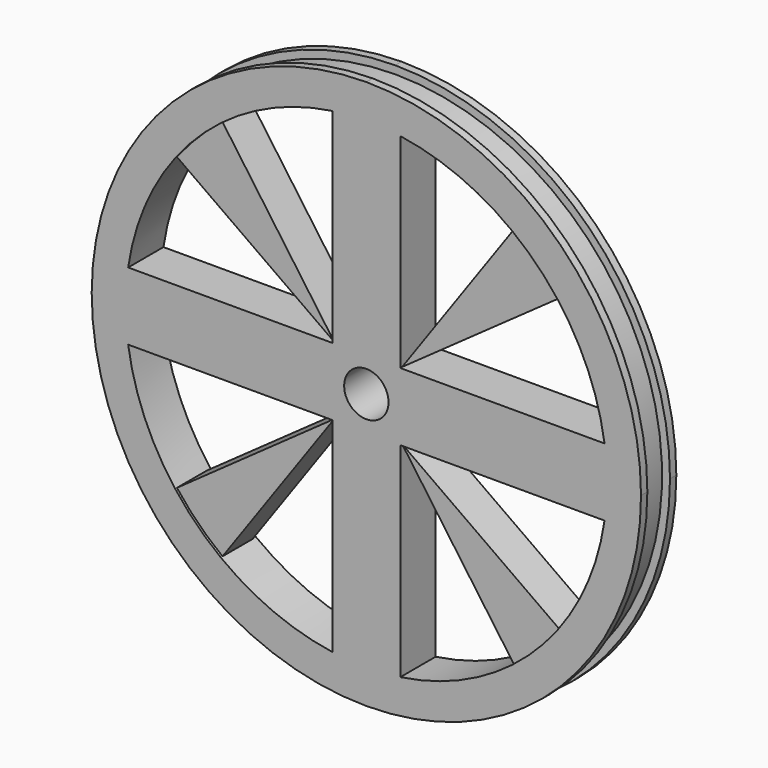
from build123d import *

# Parameters (mm, degrees)
F1_DEPTH = 9.906
F2_R     = 4.9801152189
F3_DEPTH = 25.4
F4_START = 0.9652
F4_DEPTH = 8.4328
F5_W     = 6.35
F5_H     = 1.778


with BuildPart() as f1:
    # F0 (on Front) → F1 (new body)
    with BuildSketch(Plane.XZ):
        with BuildLine():
            Line((0, 0), (0, 61.6404471462))
            ThreePointArc((0, 61.6404471462), (-43.5239509261, 43.5239509261), (-61.6404471462, 0))
            Line((-61.6404471462, 0), (0, 0))
        make_face()
        with BuildLine():
            ThreePointArc((-32.6825445587, 42.9048036652), (-20.8229984577, 49.7745877791), (-7.620000662, 53.4520348147))
            Line((-7.620000662, 53.4520348147), (-7.620000662, 7.620000662))
            Line((-7.620000662, 7.620000662), (-53.4520348147, 7.620000662))
            ThreePointArc((-53.4520348147, 7.620000662), (-49.7745877791, 20.8229984577), (-42.9048036652, 32.6825445587))
            ThreePointArc((-42.9048036652, 32.6825445587), (-38.1357967854, 38.1357967854), (-32.6825445587, 42.9048036652))
        make_face(mode=Mode.SUBTRACT)
        with BuildLine():
            ThreePointArc((-61.6404471462, 0), (0, -61.6404471462), (61.6404471462, 0))
            ThreePointArc((61.6404471462, 0), (43.5863781724, 43.5863781724), (0, 61.6404471462))
            Line((0, 61.6404471462), (0, 0))
            Line((0, 0), (-61.6404471462, 0))
        make_face()
        with BuildLine():
            ThreePointArc((-42.9048036652, -32.6825445587), (-49.7745877791, -20.8229984577), (-53.4520348147, -7.620000662))
            Line((-53.4520348147, -7.620000662), (-7.620000662, -7.620000662))
            Line((-7.620000662, -7.620000662), (-7.620000662, -53.4520348147))
            ThreePointArc((-7.620000662, -53.4520348147), (-20.8229984577, -49.7745877791), (-32.6825445587, -42.9048036652))
            ThreePointArc((-32.6825445587, -42.9048036652), (-38.1357967854, -38.1357967854), (-42.9048036652, -32.6825445587))
        make_face(mode=Mode.SUBTRACT)
        with BuildLine():
            ThreePointArc((32.6825445587, -42.9048036652), (20.8229984577, -49.7745877791), (7.620000662, -53.4520348147))
            Line((7.620000662, -53.4520348147), (7.620000662, -7.620000662))
            Line((7.620000662, -7.620000662), (53.4520348147, -7.620000662))
            ThreePointArc((53.4520348147, -7.620000662), (49.7745877791, -20.8229984577), (42.9048036652, -32.6825445587))
            ThreePointArc((42.9048036652, -32.6825445587), (38.1357967854, -38.1357967854), (32.6825445587, -42.9048036652))
        make_face(mode=Mode.SUBTRACT)
        with BuildLine():
            ThreePointArc((42.9048036652, 32.6825445587), (49.7745877791, 20.8229984577), (53.4520348147, 7.620000662))
            Line((53.4520348147, 7.620000662), (7.620000662, 7.620000662))
            Line((7.620000662, 7.620000662), (7.620000662, 53.4520348147))
            ThreePointArc((7.620000662, 53.4520348147), (20.8229984577, 49.7745877791), (32.6825445587, 42.9048036652))
            ThreePointArc((32.6825445587, 42.9048036652), (38.1357967854, 38.1357967854), (42.9048036652, 32.6825445587))
        make_face(mode=Mode.SUBTRACT)
    extrude(amount=F1_DEPTH)

    # F2 (on face) → F3 (cut)
    with BuildSketch(Plane(origin=(0, 0, 0), x_dir=(-1, 0, 0), z_dir=(0, 1, 0))):
        Circle(F2_R)
    extrude(amount=-F3_DEPTH, mode=Mode.SUBTRACT)

    # F5 (on Right) → F6 (revolve, cut)
    with BuildSketch(Plane.YZ):
        with Locations((-4.953, 60.7514471462)):
            Rectangle(F5_W, F5_H)
    revolve(axis=Axis((0, -19.4112598596, 0), (0, -1, 0)), mode=Mode.SUBTRACT)


with BuildPart() as f4:
    # F0 (on Front) → F4 (new body)
    with BuildSketch(Plane.XZ.offset(F4_START)):
        with BuildLine():
            Line((-7.620000662, 7.620000662), (-32.6825445587, 42.9048036652))
            ThreePointArc((-32.6825445587, 42.9048036652), (-38.1357967854, 38.1357967854), (-42.9048036652, 32.6825445587))
            Line((-42.9048036652, 32.6825445587), (-7.620000662, 7.620000662))
        make_face()
    extrude(amount=F4_DEPTH)


with BuildPart() as f4b:
    # F0 (on Front) → F4, piece 2 (new body)
    with BuildSketch(Plane.XZ.offset(F4_START)):
        with BuildLine():
            Line((-7.620000662, -7.620000662), (-42.9048036652, -32.6825445587))
            ThreePointArc((-42.9048036652, -32.6825445587), (-38.1357967854, -38.1357967854), (-32.6825445587, -42.9048036652))
            Line((-32.6825445587, -42.9048036652), (-7.620000662, -7.620000662))
        make_face()
    extrude(amount=F4_DEPTH)


with BuildPart() as f4c:
    # F0 (on Front) → F4, piece 3 (new body)
    with BuildSketch(Plane.XZ.offset(F4_START)):
        with BuildLine():
            Line((7.620000662, -7.620000662), (32.6825445587, -42.9048036652))
            ThreePointArc((32.6825445587, -42.9048036652), (38.1357967854, -38.1357967854), (42.9048036652, -32.6825445587))
            Line((42.9048036652, -32.6825445587), (7.620000662, -7.620000662))
        make_face()
    extrude(amount=F4_DEPTH)


with BuildPart() as f4d:
    # F0 (on Front) → F4, piece 4 (new body)
    with BuildSketch(Plane.XZ.offset(F4_START)):
        with BuildLine():
            Line((7.620000662, 7.620000662), (42.9048036652, 32.6825445587))
            ThreePointArc((42.9048036652, 32.6825445587), (38.1357967854, 38.1357967854), (32.6825445587, 42.9048036652))
            Line((32.6825445587, 42.9048036652), (7.620000662, 7.620000662))
        make_face()
    extrude(amount=F4_DEPTH)


solid = Compound([f1.part, f4.part, f4b.part, f4c.part, f4d.part])
